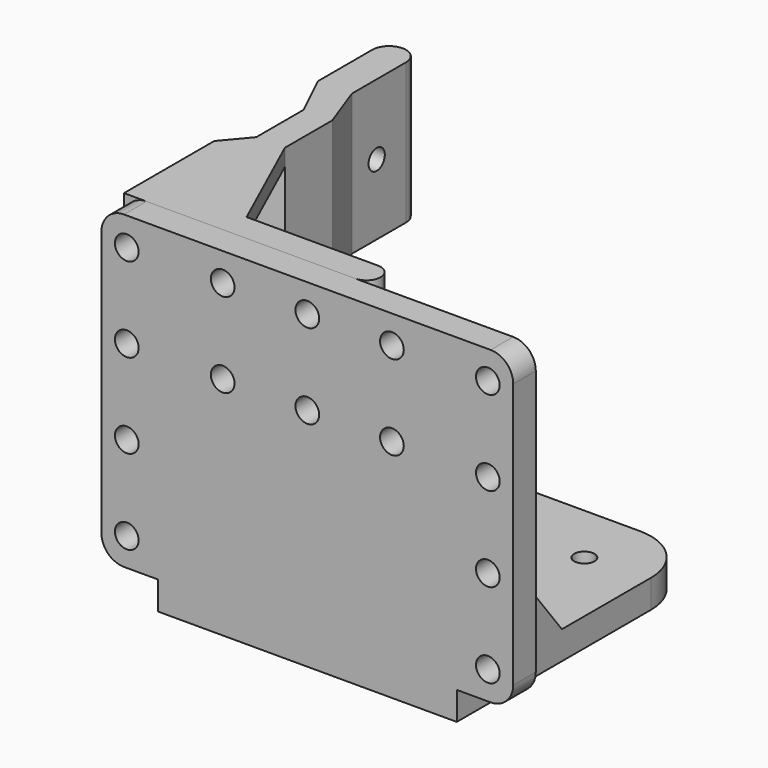
from build123d import *

# Parameters (mm, degrees)
CYLINDER098_R            = 1.8
CYLINDER098_DEPTH        = 5
ARRAY001_X_COUNT         = 2
ARRAY001_X_PITCH         = 31
ARRAY001_Y_COUNT         = 2
ARRAY001_Y_PITCH         = 31
CYLINDER_R               = 2.1
CYLINDER_DEPTH           = 50
ARRAY_X_COUNT            = 2
ARRAY_X_PITCH            = 64
ARRAY_Y_COUNT            = 4
ARRAY_Y_PITCH            = 15
ARRAY_PLACEMENT_ANGLE    = 90
CYLINDER099_R            = 2.1
CYLINDER099_DEPTH        = 50
ARRAY003_X_COUNT         = 3
ARRAY003_X_PITCH         = 15
ARRAY003_Y_COUNT         = 2
ARRAY003_Y_PITCH         = 15
ARRAY003_PLACEMENT_ANGLE = 90
CYLINDER097_R            = 11.5
CYLINDER097_DEPTH        = 5
BOX005_W                 = 53
BOX005_H                 = 53
BOX005_DEPTH             = 5
FILLET001_R              = 10
BOX006_W                 = 73
BOX006_H                 = 5
BOX006_DEPTH             = 55
FILLET_R                 = 4
PAD001_DEPTH             = 5
ARRAY002_X_COUNT         = 2
ARRAY002_X_PITCH         = 48
CYLINDER101_R            = 1.8
CYLINDER101_DEPTH        = 50
ARRAY005_Y_COUNT         = 2
ARRAY005_Y_PITCH         = 35
CYLINDER100_R            = 1.8
CYLINDER100_DEPTH        = 50
ARRAY004_X_COUNT         = 3
ARRAY004_X_PITCH         = 15
ARRAY004_Y_COUNT         = 2
ARRAY004_Y_PITCH         = 15
ARRAY004_PLACEMENT_ANGLE = 90
EXTRUDE001_DEPTH         = 3
EXTRUDE_DEPTH            = 12.5


with BuildPart() as stepper_bolt_hole_array:
    # Cylinder098 → Cylinder098 (new body)
    with BuildSketch(Plane.XY):
        Circle(CYLINDER098_R)
    extrude(amount=CYLINDER098_DEPTH)

    # Array001 X: stepper bolt hole array ×2


with BuildPart() as stepper_bolt_hole_array_1:
    add(stepper_bolt_hole_array.part)
    with Locations(*[(i * ARRAY001_X_PITCH, 0, 0) for i in range(1, ARRAY001_X_COUNT)]):
        add(stepper_bolt_hole_array.part)

    # Array001 Y: stepper bolt hole array ×2


with BuildPart() as stepper_bolt_hole_array_2:
    add(stepper_bolt_hole_array_1.part)
    with Locations(*[(0, i * ARRAY001_Y_PITCH, 0) for i in range(1, ARRAY001_Y_COUNT)]):
        add(stepper_bolt_hole_array_1.part)


with BuildPart() as stepper_bolt_hole_array_3:
    # Array001 placement: moved
    add(stepper_bolt_hole_array_2.part.moved(Location((-15.5, -15.5, 0))))


with BuildPart() as bottom_hole_array:
    # Cylinder → Cylinder (new body)
    with BuildSketch(Plane.XY.offset(-25)):
        Circle(CYLINDER_R)
    extrude(amount=CYLINDER_DEPTH)

    # Array X: bottom hole array ×2


with BuildPart() as bottom_hole_array_1:
    add(bottom_hole_array.part)
    with Locations(*[(i * ARRAY_X_PITCH, 0, 0) for i in range(1, ARRAY_X_COUNT)]):
        add(bottom_hole_array.part)

    # Array Y: bottom hole array ×4


with BuildPart() as bottom_hole_array_2:
    add(bottom_hole_array_1.part)
    with Locations(*[(0, i * ARRAY_Y_PITCH, 0) for i in range(1, ARRAY_Y_COUNT)]):
        add(bottom_hole_array_1.part)


with BuildPart() as bottom_hole_array_3:
    # Array placement: moved
    add(bottom_hole_array_2.part.moved(Location((-32, -20.5, 10))).rotate(Axis((-32, -20.5, 10), (1, 0, 0)), ARRAY_PLACEMENT_ANGLE))


with BuildPart() as obj1:
    # Cylinder099 → Cylinder099 (new body)
    with BuildSketch(Plane.XY.offset(-25)):
        Circle(CYLINDER099_R)
    extrude(amount=CYLINDER099_DEPTH)

    # Array003 X: obj1_3


with BuildPart() as obj1_1:
    add(obj1.part)
    with Locations(*[(i * ARRAY003_X_PITCH, 0, 0) for i in range(1, ARRAY003_X_COUNT)]):
        add(obj1.part)

    # Array003 Y: obj1_2


with BuildPart() as obj1_2:
    add(obj1_1.part)
    with Locations(*[(0, i * ARRAY003_Y_PITCH, 0) for i in range(1, ARRAY003_Y_COUNT)]):
        add(obj1_1.part)


with BuildPart() as obj1_3:
    # Array003 placement: moved
    add(obj1_2.part.moved(Location((-15, -20.5, 40))).rotate(Axis((-15, -20.5, 40), (1, 0, 0)), ARRAY003_PLACEMENT_ANGLE))


with BuildPart() as stepper_mount_holes:
    # Cylinder097 → Cylinder097 (new body)
    with BuildSketch(Plane.XY):
        Circle(CYLINDER097_R)
    extrude(amount=CYLINDER097_DEPTH)

    # Fusion006: union stepper bolt hole array, bottom hole array, obj1
    add(stepper_bolt_hole_array_3.part)
    add(bottom_hole_array_3.part)
    add(obj1_3.part)


with BuildPart() as stepper_mount_cube_fillet:
    # Box005 → Box005 (new body)
    with BuildSketch(Plane(origin=(-26.5, -26.5, 0), x_dir=(1, 0, 0), z_dir=(0, 0, 1))):
        with Locations((26.5, 26.5)):
            Rectangle(BOX005_W, BOX005_H)
    extrude(amount=BOX005_DEPTH)

    # Fillet001
    fillet001_edges = [stepper_mount_cube_fillet.edges().sort_by_distance(p)[0] for p in [
        (-26.5, 26.5, 2.5),
        (26.5, 26.5, 2.5),
    ]]
    fillet(fillet001_edges, radius=FILLET001_R)


with BuildPart() as stepper_mount_bottom_fillet:
    # Box006 → Box006 (new body)
    with BuildSketch(Plane(origin=(-36.5, -26.5, 5), x_dir=(1, 0, 0), z_dir=(0, 0, 1))):
        with Locations((36.5, 2.5)):
            Rectangle(BOX006_W, BOX006_H)
    extrude(amount=BOX006_DEPTH)

    # Fillet
    fillet_edges = [stepper_mount_bottom_fillet.edges().sort_by_distance(p)[0] for p in [
        (-36.5, -24, 60),
        (-36.5, -24, 5),
        (36.5, -24, 60),
        (36.5, -24, 5),
    ]]
    fillet(fillet_edges, radius=FILLET_R)


with BuildPart() as stepper_mount_cut:
    # Sketch001 → Pad001 (new body)
    with BuildSketch(Plane.YZ):
        Polygon((-26.5, 5), (-3.224222, 5), (-26.5, 35), align=None)
    extrude(amount=PAD001_DEPTH)

    # Array002 X: stepper mount cut ×2


with BuildPart() as stepper_mount_cut_1:
    add(stepper_mount_cut.part)
    with Locations(*[(i * ARRAY002_X_PITCH, 0, 0) for i in range(1, ARRAY002_X_COUNT)]):
        add(stepper_mount_cut.part)


with BuildPart() as stepper_mount_cut_2:
    # Array002 placement: moved
    add(stepper_mount_cut_1.part.moved(Location((-26.5, 0, 0))))

    # Fusion007: union stepper mount cube fillet, stepper mount bottom fillet
    add(stepper_mount_cube_fillet.part)
    add(stepper_mount_bottom_fillet.part)

    # Cut004: cut stepper mount holes
    add(stepper_mount_holes.part, mode=Mode.SUBTRACT)


with BuildPart() as wall_attachment_hole_array:
    # Cylinder101 → Cylinder101 (new body)
    with BuildSketch(Plane(origin=(-50, -8, 47.5), x_dir=(0, 0, -1), z_dir=(1, 0, 0))):
        Circle(CYLINDER101_R)
    extrude(amount=CYLINDER101_DEPTH)

    # Array005 Y: wall attachment hole array ×2


with BuildPart() as wall_attachment_hole_array_1:
    add(wall_attachment_hole_array.part)
    with Locations(*[(0, i * ARRAY005_Y_PITCH, 0) for i in range(1, ARRAY005_Y_COUNT)]):
        add(wall_attachment_hole_array.part)


with BuildPart() as wall_attachment_hole_fusion:
    # Cylinder100 → Cylinder100 (new body)
    with BuildSketch(Plane.XY.offset(-25)):
        Circle(CYLINDER100_R)
    extrude(amount=CYLINDER100_DEPTH)

    # Array004 X: wall attachment hole fusion ×3


with BuildPart() as wall_attachment_hole_fusion_1:
    add(wall_attachment_hole_fusion.part)
    with Locations(*[(i * ARRAY004_X_PITCH, 0, 0) for i in range(1, ARRAY004_X_COUNT)]):
        add(wall_attachment_hole_fusion.part)

    # Array004 Y: wall attachment hole fusion ×2


with BuildPart() as wall_attachment_hole_fusion_2:
    add(wall_attachment_hole_fusion_1.part)
    with Locations(*[(0, i * ARRAY004_Y_PITCH, 0) for i in range(1, ARRAY004_Y_COUNT)]):
        add(wall_attachment_hole_fusion_1.part)


with BuildPart() as wall_attachment_hole_fusion_3:
    # Array004 placement: moved
    add(wall_attachment_hole_fusion_2.part.moved(Location((-15, -20.5, 40))).rotate(Axis((-15, -20.5, 40), (1, 0, 0)), ARRAY004_PLACEMENT_ANGLE))

    # Fusion008: union wall attachment hole array
    add(wall_attachment_hole_array_1.part)


with BuildPart() as extrude001:
    # Sketch002 → Extrude001 (new body)
    with BuildSketch(Plane.XY):
        Polygon((-36.5, -21.5), (-16.5, -21.5), (-27.599745, 3.032881), (-36.5, -1.5), align=None)
    extrude(amount=EXTRUDE001_DEPTH)


with BuildPart() as extrude001_1:
    # Extrude001 placement: moved
    add(extrude001.part.moved(Location((0, 0, -12.5))))


with BuildPart() as part_mirroring:
    # Part__Mirroring: instance of Extrude001
    add(extrude001_1.part.mirror(Plane(origin=(0, 0, 0), x_dir=(0, 1, 0), z_dir=(0, 0, 1))))


with BuildPart() as wall_attachment_cut:
    # Sketch → Extrude (new body, symmetric)
    with BuildSketch(Plane.XY):
        with BuildLine():
            ThreePointArc((-30.5, 33.5), (-33.5, 36.5), (-36.5, 33.5))
            Line((-36.5, 21.5), (-36.5, 33.5))
            Line((-32.678799, 13.544533), (-36.5, 21.5))
            Line((-32.678799, 3.032881), (-32.678799, 13.544533))
            Line((-36.5, -1.5), (-32.678799, 3.032881))
            Line((-36.5, -21.5), (-36.5, -1.5))
            Line((-36.5, -21.5), (4.5, -21.5))
            ThreePointArc((4.5, -21.5), (7, -19), (4.5, -16.5))
            Line((-30.5, -16.5), (4.5, -16.5))
            Line((-30.5, -1.5), (-30.5, -16.5))
            Line((-27.599745, 3.032881), (-30.5, -1.5))
            Line((-27.599745, 13.544533), (-27.599745, 3.032881))
            Line((-30.5, 21.5), (-27.599745, 13.544533))
            Line((-30.5, 33.5), (-30.5, 21.5))
        make_face()
    extrude(amount=EXTRUDE_DEPTH, both=True)

    # Fusion: union Extrude001, Part__Mirroring
    add(extrude001_1.part)
    add(part_mirroring.part)


with BuildPart() as wall_attachment_cut_1:
    # Fusion placement: moved
    add(wall_attachment_cut.part.moved(Location((0, 0, 47.5))))

    # Cut005: cut wall attachment hole fusion
    add(wall_attachment_hole_fusion_3.part, mode=Mode.SUBTRACT)


solid = Compound([stepper_mount_cut_2.part, wall_attachment_cut_1.part])
